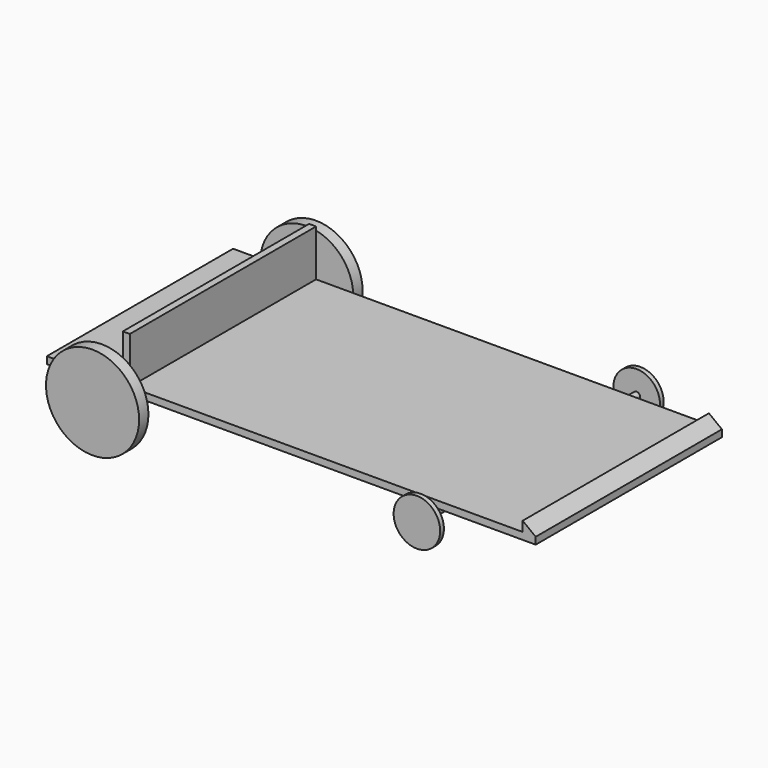
from build123d import *

# Parameters (mm, degrees)
F0_W      = 3.81
F0_H      = 25.4
F1_DEPTH  = 63.5
F0_R      = 1.905
F2_DEPTH  = 76.2
F4_START  = 69.85
F3_R      = 25.4
F4_DEPTH  = 6.35
F5_START  = 73.66
F3_R_2    = 12.7
F5_DEPTH  = 2.54
F6_START  = -73.66
F6_DEPTH  = 2.54
F7_START  = -69.85
F7_DEPTH  = 6.35
F8_DEPTH  = 63.5
F9_W      = 12.4537762487
F9_H      = 17.8824202158
F10_DEPTH = 25.4
F0_R_2    = 1.27
F11_DEPTH = 15.24
F0_R_3    = 6.35
F12_DEPTH = 25.4


with BuildPart() as f1:
    # F0 (on Front) → F1 (new body, symmetric)
    with BuildSketch(Plane.XZ):
        Polygon((-76.2167557975, 1.44113655), (-76.2167557975, -2.36886345), (190.4832442025, -2.36886345), (190.4832442025, 1.44113655), (183.3781301975, 1.44113655), (-30.9478223562, 1.44113655), (-34.7578223562, 1.44113655), align=None)
        with Locations((-32.8528223562, 14.14113655)):
            Rectangle(F0_W, F0_H)
    extrude(amount=F1_DEPTH, both=True)

    # F0 (on Front) → F8 (join, symmetric)
    with BuildSketch(Plane.XZ):
        Polygon((183.3781301975, 1.44113655), (190.4832442025, 1.44113655), (183.3781301975, 6.8395356648), align=None)
    extrude(amount=F8_DEPTH, both=True)

    # F9 (on face) → F10 (cut)
    with BuildSketch(Plane.XY.offset(1.44113655)):
        with Locations((-40.9847104806, 11.3378230017)):
            Rectangle(F9_W, F9_H)
    extrude(amount=-F10_DEPTH, mode=Mode.SUBTRACT)


with BuildPart() as f2:
    # F0 (on Front) → F2 (new body, symmetric)
    with BuildSketch(Plane.XZ):
        with Locations((-41.1454886198, -4.27858904)):
            Circle(F0_R)
    extrude(amount=F2_DEPTH, both=True)

    # F3 (on Front) → F4 (join)
    with BuildSketch(Plane.XZ.offset(F4_START)):
        with Locations((-41.1279797554, -4.2137699202)):
            Circle(F3_R)
    extrude(amount=F4_DEPTH)

    # F3 (on Front) → F7 (join)
    with BuildSketch(Plane.XZ.offset(F7_START)):
        with Locations((-41.1279797554, -4.2137699202)):
            Circle(F3_R)
    extrude(amount=-F7_DEPTH)


with BuildPart() as f2b:
    # F0 (on Front) → F2, piece 2 (new body, symmetric)
    with BuildSketch(Plane.XZ):
        with Locations((135.7958912849, -4.27858904)):
            Circle(F0_R)
    extrude(amount=F2_DEPTH, both=True)

    # F3 (on Front) → F5 (join)
    with BuildSketch(Plane.XZ.offset(F5_START)):
        with Locations((135.8346194029, -4.2137699202)):
            Circle(F3_R_2)
    extrude(amount=F5_DEPTH)

    # F3 (on Front) → F6 (join)
    with BuildSketch(Plane.XZ.offset(F6_START)):
        with Locations((135.8346194029, -4.2137699202)):
            Circle(F3_R_2)
    extrude(amount=-F6_DEPTH)


with BuildPart() as f11:
    # F0 (on Front) → F11 (new body)
    with BuildSketch(Plane.XZ):
        with Locations((-41.1454886198, 7.8496225178)):
            Circle(F0_R_2)
    extrude(amount=-F11_DEPTH)

    # F0 (on Front) → F12 (join)
    with BuildSketch(Plane.XZ):
        with Locations((-41.1454886198, 7.8496225178)):
            Circle(F0_R_3)
        with Locations((-41.1454886198, 7.8496225178)):
            Circle(F0_R_2, mode=Mode.SUBTRACT)
        with Locations((-41.1454886198, 7.8496225178)):
            Circle(F0_R_2)
    extrude(amount=F12_DEPTH)


solid = Compound([f1.part, f2.part, f2b.part, f11.part])
